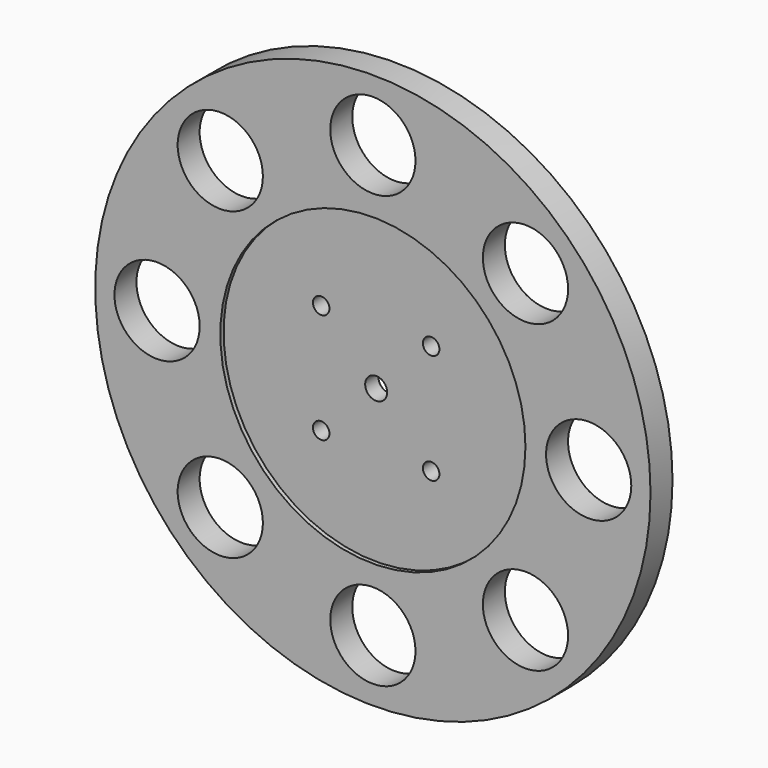
from build123d import *

# Parameters (mm, degrees)
F0_R         = 101
F0_R_2       = 4
F1_DEPTH     = 5
F2_R         = 15.5
F2_R_2       = 3
F1_FACE1_R   = 101
F1_FACE1_R_2 = 4
F3_DEPTH     = 10.001
F5_R         = 55.5
F6_DEPTH     = 1.5
F7_R         = 55.5
F4_DEPTH     = 2.5


with BuildPart() as f1:
    # F0 (on Front) → F1 (new body, symmetric)
    with BuildSketch(Plane.XZ):
        Circle(F0_R)
        Circle(F0_R_2, mode=Mode.SUBTRACT)
    extrude(amount=F1_DEPTH, both=True)

    # F2 (on face) + F1_face1 (on face) → F3 (cut, through all)
    with BuildSketch(Plane.XZ.offset(5)):
        with Locations((-55.5078823231, -55.5078823231)):
            Circle(F2_R)
        with Locations((-78.5, 0)):
            Circle(F2_R)
        with Locations((-55.5078823231, 55.5078823231)):
            Circle(F2_R)
        with Locations((0, 78.5)):
            Circle(F2_R)
        with Locations((55.5078823231, 55.5078823231)):
            Circle(F2_R)
        with Locations((78.5, 0)):
            Circle(F2_R)
        with Locations((55.5078823231, -55.5078823231)):
            Circle(F2_R)
        with Locations((0, -78.5)):
            Circle(F2_R)
        with Locations((-20, 20)):
            Circle(F2_R_2)
        with Locations((20, 20)):
            Circle(F2_R_2)
        with Locations((20, -20)):
            Circle(F2_R_2)
        with Locations((-20, -20)):
            Circle(F2_R_2)
    with BuildSketch(Plane(origin=(0, 5, 0), x_dir=(1, 0, 0), z_dir=(0, 1, 0))):
        Circle(F1_FACE1_R)
        Circle(F1_FACE1_R_2, mode=Mode.SUBTRACT)
    extrude(amount=-F3_DEPTH, dir=(0, -1, 0), mode=Mode.SUBTRACT)

    # F5 (on face) → F6 (cut, symmetric)
    with BuildSketch(Plane.XZ.offset(5)):
        Circle(F5_R)
    extrude(amount=F6_DEPTH, both=True, mode=Mode.SUBTRACT)

    # F7 (on face) → F4 (cut, symmetric)
    with BuildSketch(Plane(origin=(0, 5, 0), x_dir=(-1, 0, 0), z_dir=(0, 1, 0))):
        Circle(F7_R)
    extrude(amount=F4_DEPTH, both=True, mode=Mode.SUBTRACT)


solid = f1.part
